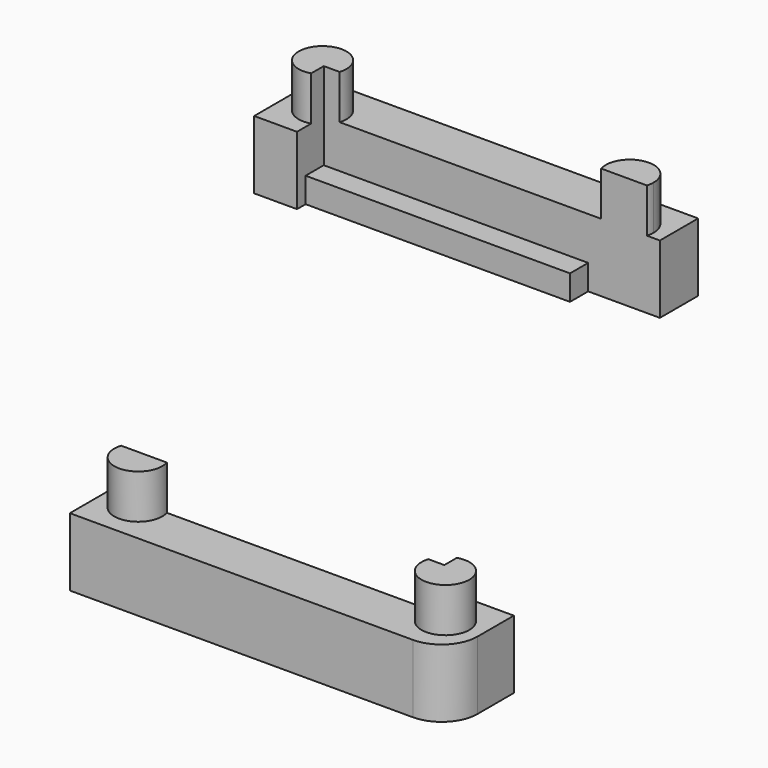
from build123d import *

# Parameters (mm, degrees)
F1_DEPTH = 9.4
F2_DEPTH = 5.7
F3_DEPTH = 2.1
F4_R     = 3


with BuildPart() as f1:
    # F0 (on Top) → F1 (new body)
    with BuildSketch(Plane.XY):
        with BuildLine():
            ThreePointArc((23.792122, -25.1), (27.104591, -27.123771), (25.12593, -23.78416))
            Line((25.12593, -23.78416), (25.12593, -25.1))
            Line((25.12593, -25.1), (23.792122, -25.1))
        make_face()
        with BuildLine():
            ThreePointArc((-1.907878, -25.1), (0, -27.7), (1.907878, -25.1))
            Line((1.907878, -25.1), (-1.907878, -25.1))
        make_face()
        with BuildLine():
            Line((-25.118154, 25.1), (-23.792122, 25.1))
            ThreePointArc((-23.792122, 25.1), (-27.107479, 27.120916), (-25.118154, 23.786507))
            Line((-25.118154, 23.786507), (-25.118154, 25.1))
        make_face()
        with BuildLine():
            Line((-1.802776, 25.1), (1.802776, 25.1))
            ThreePointArc((1.802776, 25.1), (0, 27.6), (-1.802776, 25.1))
        make_face()
        with BuildLine():
            Line((1.802776, 25.1), (1.907878, 25.1))
            ThreePointArc((1.907878, 25.1), (1.976835, 25.396485), (2, 25.7))
            ThreePointArc((2, 25.7), (-0.303515, 27.676835), (-1.907878, 25.1))
            Line((-1.907878, 25.1), (-1.802776, 25.1))
            ThreePointArc((-1.802776, 25.1), (0, 27.6), (1.802776, 25.1))
        make_face()
    extrude(amount=F1_DEPTH)

    # F0 (on Top) → F2 (join)
    with BuildSketch(Plane.XY):
        with BuildLine():
            Line((28.7, -22.3), (25.12593, -22.3))
            Line((25.12593, -22.3), (25.12593, -23.2))
            Line((25.12593, -23.2), (25.12593, -23.78416))
            ThreePointArc((25.12593, -23.78416), (27.104591, -27.123771), (23.792122, -25.1))
            Line((23.792122, -25.1), (2.915675, -25.1))
            Line((2.915675, -25.1), (1.907878, -25.1))
            ThreePointArc((1.907878, -25.1), (0, -27.7), (-1.907878, -25.1))
            Line((-1.907878, -25.1), (-2.612185, -25.1))
            Line((-2.612185, -25.1), (-3, -25.1))
            Line((-3, -25.1), (-3, -29.1))
            Line((-3, -29.1), (28.7, -29.1))
            Line((28.7, -29.1), (28.7, -22.3))
        make_face()
        with BuildLine():
            Line((1.907878, 25.1), (3, 25.1))
            Line((3, 25.1), (3, 29.1))
            Line((3, 29.1), (-3, 29.1))
            Line((-3, 29.1), (-28.7, 29.1))
            Line((-28.7, 29.1), (-28.7, 22.3))
            Line((-28.7, 22.3), (-25.118154, 22.3))
            Line((-25.118154, 22.3), (-25.118154, 23.2))
            Line((-25.118154, 23.2), (-25.118154, 23.786507))
            ThreePointArc((-25.118154, 23.786507), (-27.107479, 27.120916), (-23.792122, 25.1))
            Line((-23.792122, 25.1), (-3, 25.1))
            Line((-3, 25.1), (-1.907878, 25.1))
            ThreePointArc((-1.907878, 25.1), (-0.303515, 27.676835), (2, 25.7))
            ThreePointArc((2, 25.7), (1.976835, 25.396485), (1.907878, 25.1))
        make_face()
    extrude(amount=F2_DEPTH)

    # F0 (on Top) → F3 (join)
    with BuildSketch(Plane.XY):
        Polygon((-3, 23.2), (-3, 25.1), (-23.792122, 25.1), (-25.118154, 25.1), (-25.118154, 23.786507), (-25.118154, 23.2), align=None)
        Polygon((25.12593, -23.78416), (25.12593, -23.2), (2.915675, -23.2), (2.915675, -25.1), (23.792122, -25.1), (25.12593, -25.1), align=None)
    extrude(amount=F3_DEPTH)

    # F4
    f4_edges = [f1.edges().sort_by_distance(p)[0] for p in [
        (28.7, -29.1, 2.85),
        (-28.7, 29.1, 2.85),
    ]]
    fillet(f4_edges, radius=F4_R)


solid = f1.part
